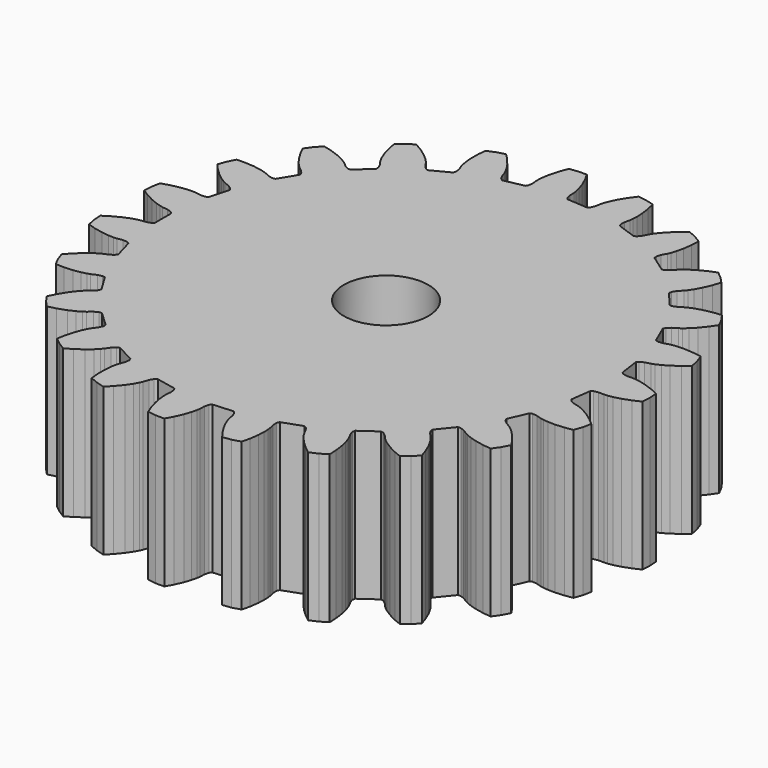
from build123d import *

# Parameters (mm, degrees)
F0_R     = 2
F1_DEPTH = 7


with BuildPart() as f1:
    # F0 (on Top) → F1 (new body)
    with BuildSketch(Plane.XY):
        Polygon((11.497663, -3.825619), (11.881055, -3.762521), (12.016882, -3.38034), (12.099403, -2.983224), (11.804612, -2.730107), (11.459593, -2.484617), (11.172649, -2.317508), (10.95452, -2.215801), (10.814038, -2.165278), (10.563733, -2.100249), (10.376557, -2.007941), (10.293702, -1.907683), (10.424901, -0.953138), (10.531733, -0.878952), (10.736873, -0.840566), (10.99544, -0.845481), (11.144343, -0.834733), (11.381823, -0.795649), (11.703213, -0.712152), (12.101669, -0.568851), (12.45382, -0.404654), (12.481499, 0), (12.45382, 0.404654), (12.101669, 0.568851), (11.703213, 0.712152), (11.381823, 0.795649), (11.144343, 0.834733), (10.99544, 0.845481), (10.736873, 0.840566), (10.531733, 0.878952), (10.424901, 0.953138), (10.293702, 1.907683), (10.376557, 2.007941), (10.563733, 2.100249), (10.814038, 2.165278), (10.95452, 2.215801), (11.172649, 2.317508), (11.459593, 2.484617), (11.804612, 2.730107), (12.099403, 2.983224), (12.016882, 3.38034), (11.881055, 3.762521), (11.497663, 3.825619), (11.07532, 3.856105), (10.743322, 3.849795), (10.504104, 3.823358), (10.357822, 3.793534), (10.110169, 3.719042), (9.90228, 3.700658), (9.779395, 3.74327), (9.395528, 4.627021), (9.448261, 4.745915), (9.603592, 4.8853), (9.82707, 5.015448), (9.948711, 5.101999), (10.131311, 5.258784), (10.362529, 5.497114), (10.628521, 5.826586), (10.844091, 6.14985), (10.657489, 6.509976), (10.423588, 6.841338), (10.03739, 6.798659), (9.622484, 6.714068), (9.304499, 6.61842), (9.081284, 6.528423), (8.948473, 6.460239), (8.730102, 6.321692), (8.534882, 6.247903), (8.405057, 6.255781), (7.796992, 7.003193), (7.815692, 7.131905), (7.927657, 7.30803), (8.107735, 7.493645), (8.201514, 7.609805), (8.335042, 7.810042), (8.493386, 8.101915), (8.660624, 8.490933), (8.780984, 8.860369), (8.504141, 9.156796), (8.189513, 9.412765), (7.829151, 9.267474), (7.452453, 9.074079), (7.172066, 8.896186), (6.981409, 8.749304), (6.871919, 8.647817), (6.699025, 8.455492), (6.530952, 8.331769), (6.403816, 8.304329), (5.61665, 8.859971), (5.599931, 8.988956), (5.660226, 9.188756), (5.783547, 9.416073), (5.842509, 9.553227), (5.917063, 9.782063), (5.990788, 10.105834), (6.046869, 10.525546), (6.063093, 10.913756), (5.716541, 11.124499), (5.344521, 11.28609), (5.036721, 11.048962), (4.72617, 10.761107), (4.504174, 10.514164), (4.360216, 10.32129), (4.282167, 10.194026), (4.167573, 9.962187), (4.039113, 9.797706), (3.924095, 9.736982), (3.016209, 10.059645), (2.96531, 10.179336), (2.969464, 10.387995), (3.026882, 10.640154), (3.046654, 10.78813), (3.056704, 11.028595), (3.040343, 11.36025), (2.981107, 11.779528), (2.891992, 12.157719), (2.501433, 12.267149), (2.099611, 12.322378), (1.867202, 12.011), (1.645829, 11.650033), (1.498691, 11.352353), (1.412107, 11.127793), (1.371289, 10.98419), (1.323493, 10.730032), (1.244173, 10.536992), (1.149803, 10.447489), (0.18853, 10.513241), (0.107227, 10.614761), (0.054931, 10.816804), (0.042189, 11.075103), (0.021304, 11.222926), (-0.033895, 11.457185), (-0.139129, 11.772128), (-0.309288, 12.159876), (-0.497133, 12.5), (-0.902733, 12.5), (-1.304555, 12.444771), (-1.444337, 12.082236), (-1.560113, 11.674929), (-1.621482, 11.348591), (-1.644269, 11.108998), (-1.644831, 10.959708), (-1.622283, 10.702079), (-1.64658, 10.494798), (-1.713302, 10.383153), (-2.656668, 10.187119), (-2.762347, 10.262939), (-2.867214, 10.443379), (-2.949172, 10.688663), (-3.009164, 10.82537), (-3.125519, 11.036049), (-3.311821, 11.310921), (-3.580284, 11.638382), (-3.852927, 11.915213), (-4.243486, 11.805784), (-4.615507, 11.644192), (-4.652295, 11.257389), (-4.653887, 10.83395), (-4.624936, 10.503156), (-4.582236, 10.266299), (-4.542499, 10.122394), (-4.45128, 9.880402), (-4.418752, 9.674252), (-4.452879, 9.548745), (-5.308373, 9.105464), (-5.430588, 9.149961), (-5.580249, 9.295418), (-5.725344, 9.509493), (-5.819995, 9.624945), (-5.988876, 9.796419), (-6.242428, 10.010834), (-6.589284, 10.253722), (-6.926505, 10.446729), (-7.273058, 10.235986), (-7.587686, 9.980017), (-7.518751, 9.597632), (-7.406042, 9.189466), (-7.288917, 8.87875), (-7.183898, 8.662197), (-7.106809, 8.534348), (-6.953684, 8.325941), (-6.866743, 8.136212), (-6.865744, 8.006152), (-7.569918, 7.348499), (-7.699606, 7.358372), (-7.882961, 7.458057), (-8.080433, 7.625048), (-8.202722, 7.710681), (-8.411604, 7.830234), (-8.713602, 7.96829), (-9.113126, 8.108591), (-9.489915, 8.203459), (-9.766758, 7.907032), (-10.00066, 7.57567), (-9.831115, 7.226063), (-9.612464, 6.863441), (-9.415852, 6.595847), (-9.256301, 6.415658), (-9.147578, 6.31335), (-8.943904, 6.153983), (-8.808999, 5.994746), (-8.772946, 5.869778), (-9.273576, 5.046529), (-9.401119, 5.021046), (-9.604568, 5.067567), (-9.839771, 5.175088), (-9.980629, 5.224553), (-10.214019, 5.283316), (-10.542067, 5.334774), (-10.964627, 5.362082), (-11.353039, 5.351776), (-11.539641, 4.991651), (-11.675468, 4.60947), (-11.417888, 4.31857), (-11.109511, 4.028386), (-10.847994, 3.823761), (-10.645746, 3.6933), (-10.513452, 3.624118), (-10.274334, 3.525612), (-10.10147, 3.408676), (-10.033038, 3.29807), (-10.292993, 2.370281), (-10.408931, 2.311333), (-10.617387, 2.301238), (-10.872877, 2.341315), (-11.021857, 2.350943), (-11.262447, 2.344559), (-11.592212, 2.305603), (-12.006471, 2.217892), (-12.377699, 2.103176), (-12.460221, 1.70606), (-12.4879, 1.301406), (-12.161387, 1.090788), (-11.786155, 0.894564), (-11.479128, 0.768084), (-11.249182, 0.697026), (-11.103129, 0.666103), (-10.846302, 0.635763), (-10.648299, 0.569801), (-10.552564, 0.481759), (-10.552564, -0.481759), (-10.648299, -0.569801), (-10.846302, -0.635763), (-11.103129, -0.666103), (-11.249182, -0.697026), (-11.479128, -0.768084), (-11.786155, -0.894564), (-12.161387, -1.090788), (-12.4879, -1.301406), (-12.460221, -1.70606), (-12.377699, -2.103176), (-12.006471, -2.217892), (-11.592212, -2.305603), (-11.262447, -2.344559), (-11.021857, -2.350943), (-10.872877, -2.341315), (-10.617387, -2.301238), (-10.408931, -2.311333), (-10.292993, -2.370281), (-10.033038, -3.29807), (-10.10147, -3.408676), (-10.274334, -3.525612), (-10.513452, -3.624118), (-10.645746, -3.6933), (-10.847994, -3.823761), (-11.109511, -4.028386), (-11.417888, -4.31857), (-11.675468, -4.60947), (-11.539641, -4.991651), (-11.353039, -5.351776), (-10.964627, -5.362082), (-10.542067, -5.334774), (-10.214019, -5.283316), (-9.980629, -5.224553), (-9.839771, -5.175088), (-9.604568, -5.067567), (-9.401119, -5.021046), (-9.273576, -5.046529), (-8.772946, -5.869778), (-8.808999, -5.994746), (-8.943904, -6.153983), (-9.147578, -6.31335), (-9.256301, -6.415658), (-9.415852, -6.595847), (-9.612464, -6.863441), (-9.831115, -7.226063), (-10.00066, -7.57567), (-9.766758, -7.907032), (-9.489915, -8.203459), (-9.113126, -8.108591), (-8.713602, -7.96829), (-8.411604, -7.830234), (-8.202722, -7.710681), (-8.080433, -7.625048), (-7.882961, -7.458057), (-7.699606, -7.358372), (-7.569918, -7.348499), (-6.865744, -8.006152), (-6.866743, -8.136212), (-6.953684, -8.325941), (-7.106809, -8.534348), (-7.183898, -8.662197), (-7.288917, -8.87875), (-7.406042, -9.189466), (-7.518751, -9.597632), (-7.587686, -9.980017), (-7.273058, -10.235986), (-6.926505, -10.446729), (-6.589284, -10.253722), (-6.242428, -10.010834), (-5.988876, -9.796419), (-5.819995, -9.624945), (-5.725344, -9.509493), (-5.580249, -9.295418), (-5.430588, -9.149961), (-5.308373, -9.105464), (-4.452879, -9.548745), (-4.418752, -9.674252), (-4.45128, -9.880402), (-4.542499, -10.122394), (-4.582236, -10.266299), (-4.624936, -10.503156), (-4.653887, -10.83395), (-4.652295, -11.257389), (-4.615507, -11.644192), (-4.243486, -11.805784), (-3.852927, -11.915213), (-3.580284, -11.638382), (-3.311821, -11.310921), (-3.125519, -11.036049), (-3.009164, -10.82537), (-2.949172, -10.688663), (-2.867214, -10.443379), (-2.762347, -10.262939), (-2.656668, -10.187119), (-1.713302, -10.383153), (-1.64658, -10.494798), (-1.622283, -10.702079), (-1.644831, -10.959708), (-1.644269, -11.108998), (-1.621482, -11.348591), (-1.560113, -11.674929), (-1.444337, -12.082236), (-1.304555, -12.444771), (-0.902733, -12.5), (-0.497133, -12.5), (-0.309288, -12.159876), (-0.139129, -11.772128), (-0.033895, -11.457185), (0.021304, -11.222926), (0.042189, -11.075103), (0.054931, -10.816804), (0.107227, -10.614761), (0.18853, -10.513241), (1.149803, -10.447489), (1.244173, -10.536992), (1.323493, -10.730032), (1.371289, -10.98419), (1.412107, -11.127793), (1.498691, -11.352353), (1.645829, -11.650033), (1.867202, -12.011), (2.099611, -12.322378), (2.501433, -12.267149), (2.891992, -12.157719), (2.981107, -11.779528), (3.040343, -11.36025), (3.056704, -11.028595), (3.046654, -10.78813), (3.026882, -10.640154), (2.969464, -10.387995), (2.96531, -10.179336), (3.016209, -10.059645), (3.924095, -9.736982), (4.039113, -9.797706), (4.167573, -9.962187), (4.282167, -10.194026), (4.360216, -10.32129), (4.504174, -10.514164), (4.72617, -10.761107), (5.036721, -11.048962), (5.344521, -11.28609), (5.716541, -11.124499), (6.063093, -10.913756), (6.046869, -10.525546), (5.990788, -10.105834), (5.917063, -9.782063), (5.842509, -9.553227), (5.783547, -9.416073), (5.660226, -9.188756), (5.599931, -8.988956), (5.61665, -8.859971), (6.403816, -8.304329), (6.530952, -8.331769), (6.699025, -8.455492), (6.871919, -8.647817), (6.981409, -8.749304), (7.172066, -8.896186), (7.452453, -9.074079), (7.829151, -9.267474), (8.189513, -9.412765), (8.504141, -9.156796), (8.780984, -8.860369), (8.660624, -8.490933), (8.493386, -8.101915), (8.335042, -7.810042), (8.201514, -7.609805), (8.107735, -7.493645), (7.927657, -7.30803), (7.815692, -7.131905), (7.796992, -7.003193), (8.405057, -6.255781), (8.534882, -6.247903), (8.730102, -6.321692), (8.948473, -6.460239), (9.081284, -6.528423), (9.304499, -6.61842), (9.622484, -6.714068), (10.03739, -6.798659), (10.423588, -6.841338), (10.657489, -6.509976), (10.844091, -6.14985), (10.628521, -5.826586), (10.362529, -5.497114), (10.131311, -5.258784), (9.948711, -5.101999), (9.82707, -5.015448), (9.603592, -4.8853), (9.448261, -4.745915), (9.395528, -4.627021), (9.779395, -3.74327), (9.90228, -3.700658), (10.110169, -3.719042), (10.357822, -3.793534), (10.504104, -3.823358), (10.743322, -3.849795), (11.07532, -3.856105), align=None)
        Circle(F0_R, mode=Mode.SUBTRACT)
    extrude(amount=F1_DEPTH)


solid = f1.part
